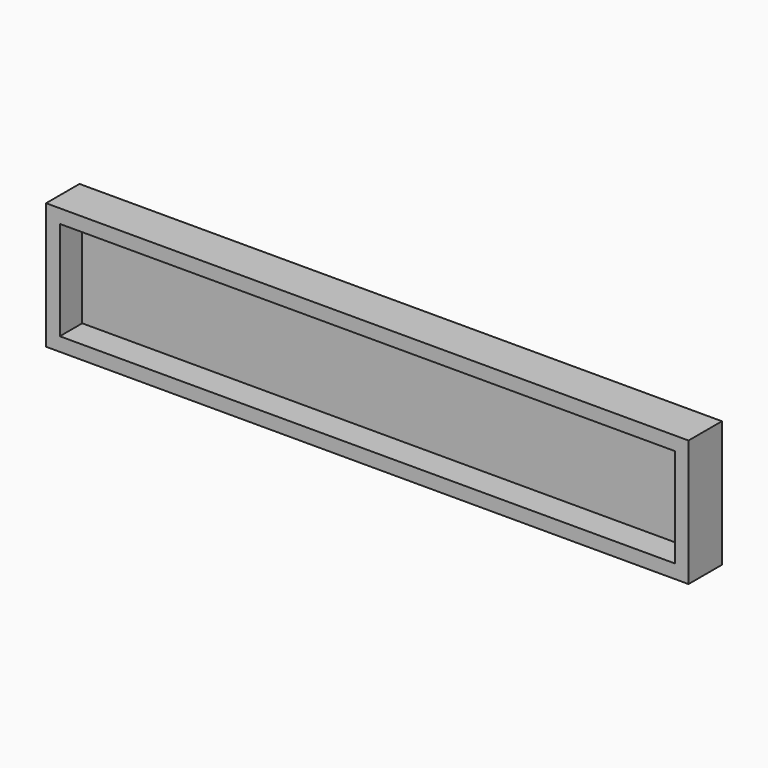
from build123d import *

# Parameters (mm, degrees)
F0_W     = 116.9
F0_H     = 23.000005
F1_DEPTH = 3.8
F2_T     = -2.5


with BuildPart() as f1:
    # F0 (on Front) → F1 (new body, symmetric)
    with BuildSketch(Plane.XZ):
        with Locations((16.631807, 11.500002)):
            Rectangle(F0_W, F0_H)
    extrude(amount=F1_DEPTH, both=True)

    # F2
    f2_openings = [f1.faces().sort_by_distance(p)[0] for p in [
        (16.631807, -3.8, 11.500002),
    ]]
    offset(amount=F2_T, openings=f2_openings)


solid = f1.part
